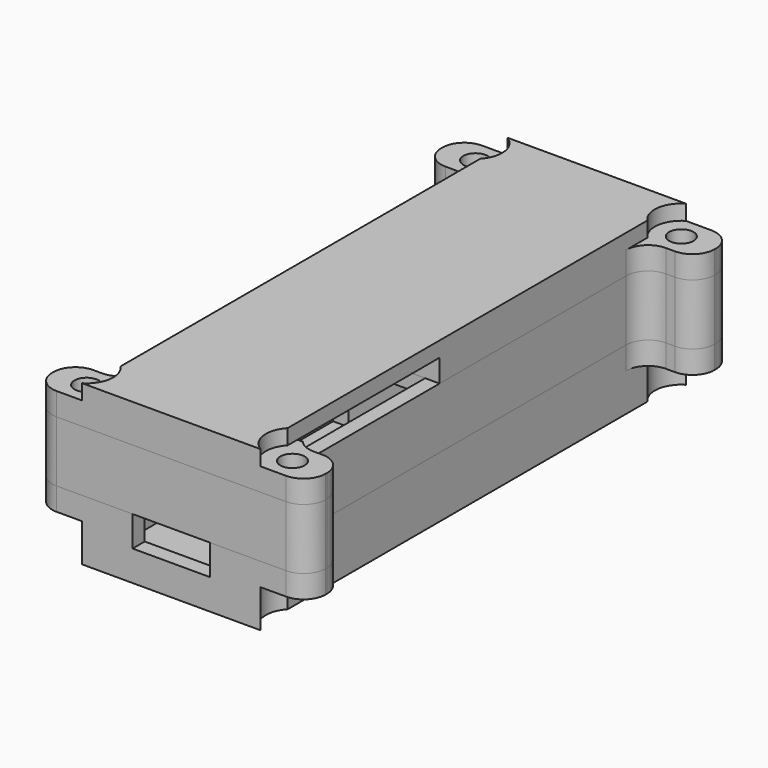
from build123d import *

# Parameters (mm, degrees)
PAD_DEPTH            = 2
PAD001_DEPTH         = 6
SKETCH005_W          = 10.2
SKETCH005_H          = 2
PAD005_DEPTH         = 2
SKETCH006_R          = 1.6
POCKET_DEPTH         = 8.001
FILLET002_R          = 2.9
POCKET003_DEPTH      = 5
CHAMFER_SIZE         = 1.9
SKETCH002_R          = 1.6
PAD002_DEPTH         = 8
SKETCH008_W          = 5
SKETCH008_H          = 2
SKETCH008_W_2        = 2.6
PAD006_DEPTH         = 18.2
FILLET001_R          = 2.9
SKETCH003_R          = 1.6
PAD003_DEPTH         = 3
SKETCH004_R          = 1.6
PAD004_DEPTH         = 2
FILLET_R             = 2.9
SKETCH009_W          = 23.4
SKETCH009_H          = 3
POCKET001_DEPTH      = 5.5
POCKET001_DEPTH_BACK = 1
POCKET004_DEPTH      = 2


with BuildPart() as bottom:
    # Sketch → Pad (new body)
    with BuildSketch(Plane.XY):
        Polygon((18, 35), (-18, 35), (-18, 29), (-11, 29), (-11, -29), (-18, -29), (-18, -35), (18, -35), (18, -29), (11, -29), (11, 29), (18, 29), align=None)
    extrude(amount=PAD_DEPTH)

    # Sketch001 (on Face14 of Pad) → Pad001 (join)
    with BuildSketch(Plane.XY.offset(2)):
        Polygon((-6.85, 35), (-18, 35), (-18, 29), (-11, 29), (-11, -29), (-18, -29), (-18, -35), (-5.1, -35), (-5.1, -33), (-9.1, -33), (-9.1, 3), (-7.1, 3), (-4.85, 19.35), (-6.85, 19.35), (-6.85, 30.85), (-8.15, 30.85), (-8.15, 32.4), (-6.85, 32.4), align=None)
        Polygon((6.85, 35), (18, 35), (18, 29), (11, 29), (11, -29), (18, -29), (18, -35), (5.1, -35), (5.1, -33), (9.1, -33), (9.1, 3), (7.1, 3), (4.85, 19.35), (6.85, 19.35), (6.85, 30.85), (8.15, 30.85), (8.15, 32.4), (6.85, 32.4), align=None)
    extrude(amount=PAD001_DEPTH)

    # Sketch005 (on Face6 of Pad001) → Pad005 (join)
    with BuildSketch(Plane.XY.offset(2)):
        with Locations((0, -34)):
            Rectangle(SKETCH005_W, SKETCH005_H)
    extrude(amount=PAD005_DEPTH)

    # Sketch006 (on Face41 of Pad005) → Pocket (cut, through all)
    with BuildSketch(Plane.XY.offset(8)):
        with Locations((-13.55, 32)):
            Circle(SKETCH006_R)
        with Locations((-13.55, -32)):
            Circle(SKETCH006_R)
        with Locations((13.55, 32)):
            Circle(SKETCH006_R)
        with Locations((13.55, -32)):
            Circle(SKETCH006_R)
    extrude(amount=-POCKET_DEPTH, mode=Mode.SUBTRACT)

    # Fillet002
    fillet002_edges = [bottom.edges().sort_by_distance(p)[0] for p in [
        (-18, 29, 5),
        (-11, 29, 5),
        (-18, -29, 5),
        (-18, -35, 5),
        (-18, 35, 5),
        (18, 29, 5),
        (18, -35, 5),
        (-11, -29, 5),
        (18, -29, 5),
        (11, -29, 5),
        (11, 29, 5),
        (18, 35, 5),
    ]]
    fillet(fillet002_edges, radius=FILLET002_R)

    # Sketch011 (on Face2 of Fillet002) → Pocket003 (cut)
    with BuildSketch(Plane(origin=(0, 0, 0), x_dir=(1, 0, 0), z_dir=(0, 0, -1))):
        with BuildLine():
            ThreePointArc((-11, 29.602606), (-10.337456, 33.389086), (-13.55, 35.5))
            Line((-13.55, 35.5), (-21, 35.5))
            Line((-21, 35.5), (-21, 26.1))
            Line((-11, 26.1), (-21, 26.1))
            Line((-11, 29.602606), (-11, 26.1))
        make_face()
        with BuildLine():
            ThreePointArc((13.55, 35.5), (10.337456, 33.389086), (11, 29.602606))
            Line((11, 29.602606), (11, 26.1))
            Line((11, 26.1), (21, 26.1))
            Line((21, 26.1), (21, 35.5))
            Line((21, 35.5), (13.55, 35.5))
        make_face()
        with BuildLine():
            ThreePointArc((11, -29.602606), (10.337456, -33.389086), (13.55, -35.5))
            Line((13.55, -35.5), (21, -35.5))
            Line((21, -35.5), (21, -26.1))
            Line((11, -26.1), (21, -26.1))
            Line((11, -29.602606), (11, -26.1))
        make_face()
        with BuildLine():
            ThreePointArc((-13.55, -35.5), (-10.337456, -33.389086), (-11, -29.602606))
            Line((-11, -29.602606), (-11, -26.1))
            Line((-11, -26.1), (-21, -26.1))
            Line((-21, -26.1), (-21, -35.5))
            Line((-21, -35.5), (-13.55, -35.5))
        make_face()
    extrude(amount=-POCKET003_DEPTH, mode=Mode.SUBTRACT)

    # Chamfer
    chamfer_edges = [bottom.edges().sort_by_distance(p)[0] for p in [
        (-5.975, 11.175, 8),
        (5.975, 11.175, 8),
    ]]
    chamfer(chamfer_edges, length=CHAMFER_SIZE)


with BuildPart() as middle:
    # Sketch002 (on Face1 of ShapeBinder) → Pad002 (new body)
    with BuildSketch(Plane.XY.offset(8)):
        Polygon((-6.85, 35), (-18, 35), (-18, 29), (-11, 29), (-11, -29), (-18, -29), (-18, -35), (18, -35), (18, -29), (11, -29), (11, 29), (18, 29), (18, 35), (6.85, 35), (6.85, 32.4), (8.15, 32.4), (8.15, 30.85), (6.85, 30.85), (6.85, 19.35), (9.1, 3), (9.1, -33), (-9.1, -33), (-9.1, 3), (-6.85, 19.35), (-6.85, 30.85), (-8.15, 30.85), (-8.15, 32.4), (-6.85, 32.4), align=None)
        with Locations((-13.55, 32)):
            Circle(SKETCH002_R, mode=Mode.SUBTRACT)
        with Locations((-13.55, -32)):
            Circle(SKETCH002_R, mode=Mode.SUBTRACT)
        with Locations((13.55, 32)):
            Circle(SKETCH002_R, mode=Mode.SUBTRACT)
        with Locations((13.55, -32)):
            Circle(SKETCH002_R, mode=Mode.SUBTRACT)
    extrude(amount=PAD002_DEPTH)

    # Sketch008 (on Face27 of Pad002) → Pad006 (join)
    with BuildSketch(Plane(origin=(9.1, 0, 0), x_dir=(0, -1, 0), z_dir=(-1, 0, 0))):
        with Locations((30.5, 15)):
            Rectangle(SKETCH008_W, SKETCH008_H)
        with Locations((3.3, 15)):
            Rectangle(SKETCH008_W_2, SKETCH008_H)
    extrude(amount=PAD006_DEPTH)

    # Fillet001
    fillet001_edges = [middle.edges().sort_by_distance(p)[0] for p in [
        (-18, -35, 12),
        (-18, -29, 12),
        (-11, -29, 12),
        (-18, 29, 12),
        (-18, 35, 12),
        (-11, 29, 12),
        (18, 35, 12),
        (18, 29, 12),
        (11, -29, 12),
        (18, -29, 12),
        (18, -35, 12),
        (11, 29, 12),
    ]]
    fillet(fillet001_edges, radius=FILLET001_R)


with BuildPart() as top:
    # Sketch003 (on Face1 of ShapeBinder001) → Pad003 (new body)
    with BuildSketch(Plane.XY.offset(16)):
        Polygon((-6.85, 35), (-18, 35), (-18, 29), (-11, 29), (-11, -29), (-18, -29), (-18, -35), (18, -35), (18, -29), (11, -29), (11, 29), (18, 29), (18, 35), (6.85, 35), (6.85, 32.4), (8.15, 32.4), (8.15, 30.85), (6.85, 30.85), (6.85, 19.35), (9.1, 3), (9.1, -2), (5.5, -2), (5.5, -4.6), (9.1, -4.6), (9.1, -28), (5.5, -28), (5.5, -30.6), (2.9, -30.6), (2.9, -28), (-9.1, -28), (-9.1, -4.6), (2.9, -4.6), (2.9, -2), (-9.1, -2), (-9.1, 3), (-6.85, 19.35), (-6.85, 30.85), (-8.15, 30.85), (-8.15, 32.4), (-6.85, 32.4), align=None)
        with Locations((-13.55, -32)):
            Circle(SKETCH003_R, mode=Mode.SUBTRACT)
        with Locations((-13.55, 32)):
            Circle(SKETCH003_R, mode=Mode.SUBTRACT)
        with Locations((13.55, 32)):
            Circle(SKETCH003_R, mode=Mode.SUBTRACT)
        with Locations((13.55, -32)):
            Circle(SKETCH003_R, mode=Mode.SUBTRACT)
    extrude(amount=PAD003_DEPTH)

    # Sketch004 (on Face46 of Pad003) → Pad004 (join)
    with BuildSketch(Plane.XY.offset(19)):
        Polygon((-18, 35), (-18, 29), (-11, 29), (-11, -29), (-18, -29), (-18, -35), (18, -35), (18, -29), (11, -29), (11, 29), (18, 29), (18, 35), align=None)
        with Locations((-13.55, 32)):
            Circle(SKETCH004_R, mode=Mode.SUBTRACT)
        with Locations((13.55, 32)):
            Circle(SKETCH004_R, mode=Mode.SUBTRACT)
        with Locations((-13.55, -32)):
            Circle(SKETCH004_R, mode=Mode.SUBTRACT)
        with Locations((13.55, -32)):
            Circle(SKETCH004_R, mode=Mode.SUBTRACT)
    extrude(amount=PAD004_DEPTH)

    # Fillet
    fillet_edges = [top.edges().sort_by_distance(p)[0] for p in [
        (-18, 35, 20),
        (-18, 35, 17.5),
        (-18, 29, 17.5),
        (-18, 29, 20),
        (-11, 29, 20),
        (-11, 29, 17.5),
        (-18, -29, 20),
        (-18, -29, 17.5),
        (-18, -35, 17.5),
        (-18, -35, 20),
        (-11, -29, 17.5),
        (-11, -29, 20),
        (18, -35, 20),
        (18, -35, 17.5),
        (18, -29, 17.5),
        (18, -29, 20),
        (11, 29, 20),
        (11, 29, 17.5),
        (18, 29, 17.5),
        (18, 29, 20),
        (18, 35, 20),
        (18, 35, 17.5),
        (11, -29, 20),
        (11, -29, 17.5),
    ]]
    fillet(fillet_edges, radius=FILLET_R)

    # Sketch009 (on Face37 of Fillet) → Pocket001 (cut, two sides)
    with BuildSketch(Plane.YZ.offset(11)) as pocket001_sk:
        with Locations((-16.3, 17.5)):
            Rectangle(SKETCH009_W, SKETCH009_H)
    extrude(amount=-POCKET001_DEPTH, mode=Mode.SUBTRACT)
    extrude(pocket001_sk.sketch, amount=POCKET001_DEPTH_BACK, mode=Mode.SUBTRACT)

    # Sketch012 (on Face64 of Pocket001) → Pocket004 (cut)
    with BuildSketch(Plane.XY.offset(21)):
        with BuildLine():
            ThreePointArc((-11, 29.602606), (-10.337456, 33.389086), (-13.55, 35.5))
            Line((-13.55, 35.5), (-21, 35.5))
            Line((-21, 35.5), (-21, 26.1))
            Line((-21, 26.1), (-11, 26.1))
            Line((-11, 26.1), (-11, 29.602606))
        make_face()
        with BuildLine():
            ThreePointArc((13.55, 35.5), (10.337456, 33.389086), (11, 29.602606))
            Line((11, 29.602606), (11, 26.1))
            Line((11, 26.1), (21, 26.1))
            Line((21, 26.1), (21, 35.5))
            Line((21, 35.5), (13.55, 35.5))
        make_face()
        with BuildLine():
            ThreePointArc((11, -29.602606), (10.337456, -33.389086), (13.55, -35.5))
            Line((21, -35.5), (13.55, -35.5))
            Line((21, -26.1), (21, -35.5))
            Line((11, -26.1), (21, -26.1))
            Line((11, -29.602606), (11, -26.1))
        make_face()
        with BuildLine():
            ThreePointArc((-13.55, -35.5), (-10.337456, -33.389086), (-11, -29.602606))
            Line((-11, -29.602606), (-11, -26.1))
            Line((-11, -26.1), (-21, -26.1))
            Line((-21, -26.1), (-21, -35.5))
            Line((-21, -35.5), (-13.55, -35.5))
        make_face()
    extrude(amount=-POCKET004_DEPTH, mode=Mode.SUBTRACT)


solid = Compound([bottom.part, middle.part, top.part])
